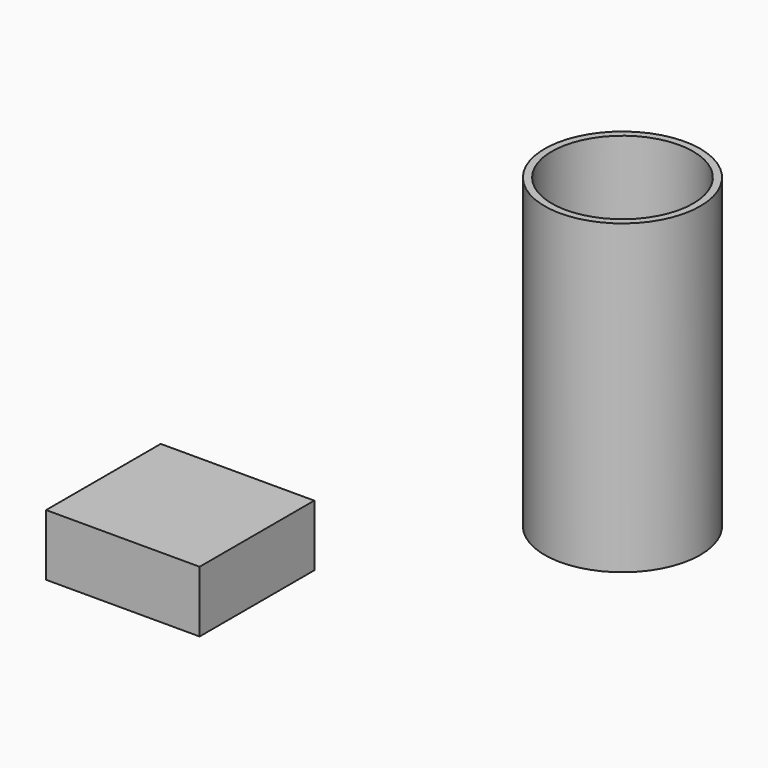
from build123d import *

# Parameters (mm, degrees)
F0_R     = 38
F1_DEPTH = 150
F2_T     = -3.5
F3_W     = 75
F3_H     = 70
F4_DEPTH = 30


with BuildPart() as f1:
    # F0 (on Top) → F1 (new body)
    with BuildSketch(Plane.XY):
        Circle(F0_R)
    extrude(amount=F1_DEPTH)

    # F2
    f2_openings = [f1.faces().sort_by_distance(p)[0] for p in [
        (0, 0, 150),
    ]]
    offset(amount=F2_T, openings=f2_openings)


with BuildPart() as f4:
    # F3 (on Top) → F4 (new body)
    with BuildSketch(Plane.XY):
        with Locations((-106.558636, -136.874975)):
            Rectangle(F3_W, F3_H)
    extrude(amount=F4_DEPTH)


solid = Compound([f1.part, f4.part])
